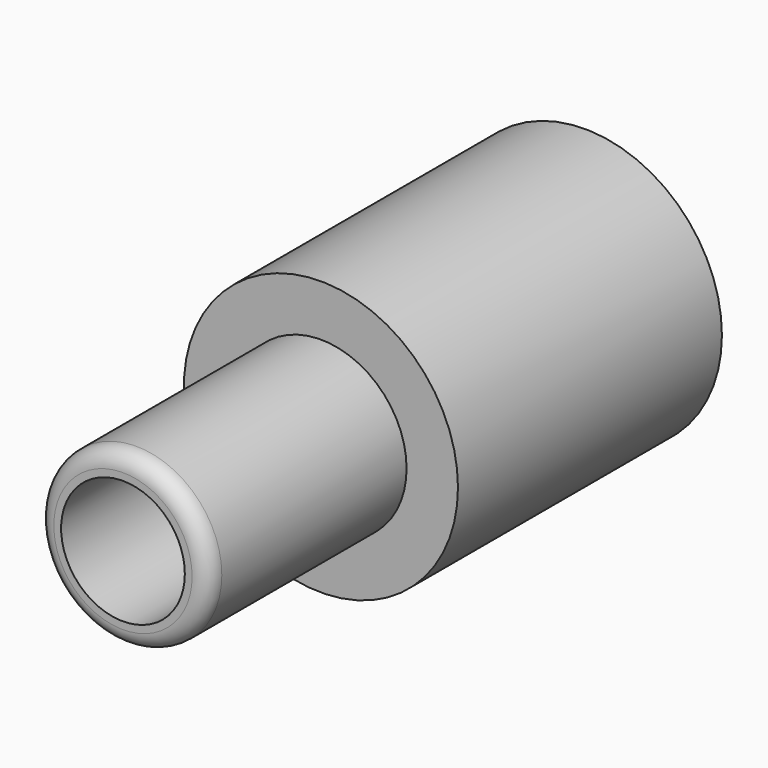
from build123d import *

# Parameters (mm, degrees)
F0_R      = 42.199156
F1_DEPTH  = 50.8
F2_R      = 26.140573
F3_DEPTH  = 25.4
F4_R      = 17.712335
F5_DEPTH  = 25.4
F6_R      = 23.120753
F1_FACE_R = 42.199156
F7_DEPTH  = 50.8
F8_R      = 26.373647
F9_DEPTH  = 76.2
F10_R     = 19.05
F11_DEPTH = 254
F12_R     = 5.08


with BuildPart() as f1:
    # F0 (on Front) → F1 (new body)
    with BuildSketch(Plane.XZ):
        Circle(F0_R)
    extrude(amount=F1_DEPTH)

    # F2 (on Front) → F3 (join)
    with BuildSketch(Plane.XZ):
        Circle(F2_R)
    extrude(amount=F3_DEPTH)

    # F4 (on Front) → F5 (join)
    with BuildSketch(Plane.XZ):
        Circle(F4_R)
    extrude(amount=F5_DEPTH)

    # F6 (on Front) + F1_face (on face) → F7 (join)
    with BuildSketch(Plane.XZ):
        Circle(F6_R)
    with BuildSketch(Plane.XZ.offset(50.8)):
        Circle(F1_FACE_R)
    extrude(amount=F7_DEPTH)

    # F8 (on face) → F9 (join)
    with BuildSketch(Plane.XZ.offset(101.6)):
        Circle(F8_R)
    extrude(amount=F9_DEPTH)

    # F10 (on face) → F11 (cut)
    with BuildSketch(Plane.XZ.offset(177.8)):
        Circle(F10_R)
    extrude(amount=-F11_DEPTH, mode=Mode.SUBTRACT)

    # F12
    f12_edges = [f1.edges().sort_by_distance(p)[0] for p in [
        (-26.373647, -177.8, 0),
    ]]
    fillet(f12_edges, radius=F12_R)


solid = f1.part
